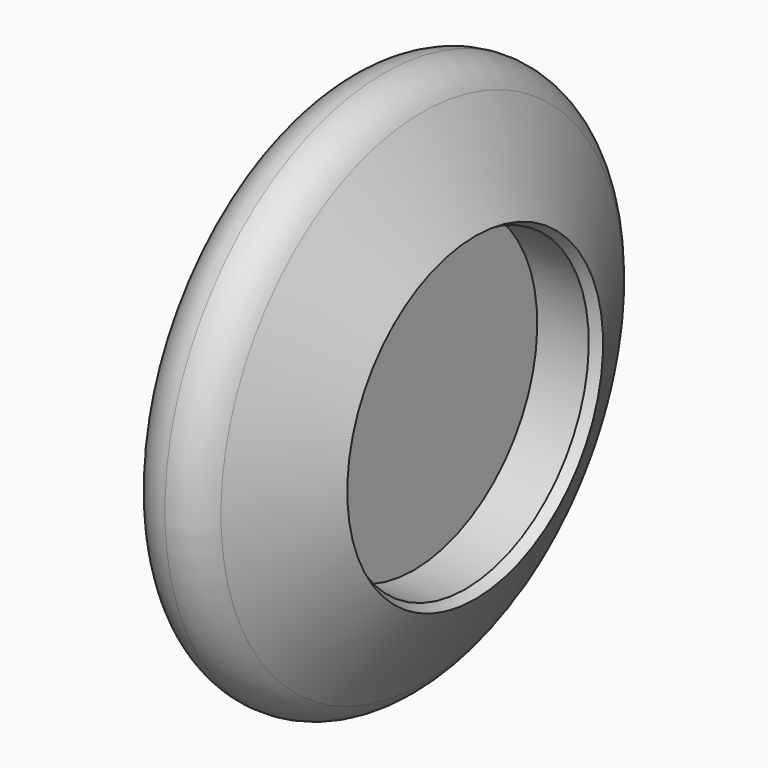
from build123d import *


with BuildPart() as f1:
    # F0 (on Front) → F1 (revolve)
    with BuildSketch(Plane.XZ):
        with BuildLine():
            ThreePointArc((-63.928831, 36.909328), (-36.909328, 9.889825), (0, 0))
            ThreePointArc((0, 0), (36.909328, 9.889825), (63.928831, 36.909328))
            Line((63.928831, 36.909328), (152.4, 190.145887))
            Line((152.4, 190.145887), (136.012062, 199.607468))
            Line((136.012062, 199.607468), (50.016642, 199.607468))
            Line((50.016642, 199.607468), (50.016642, 457.2))
            Line((50.016642, 457.2), (0, 457.2))
            Line((0, 457.2), (-50.016642, 457.2))
            Line((-50.016642, 457.2), (-50.016642, 199.607468))
            Line((-50.016642, 199.607468), (-136.012062, 199.607468))
            Line((-136.012062, 199.607468), (-152.4, 190.145887))
            Line((-152.4, 190.145887), (-63.928831, 36.909328))
        make_face()
    revolve(axis=Axis((25.008321, 0, 457.2), (1, 0, 0)))


solid = f1.part
